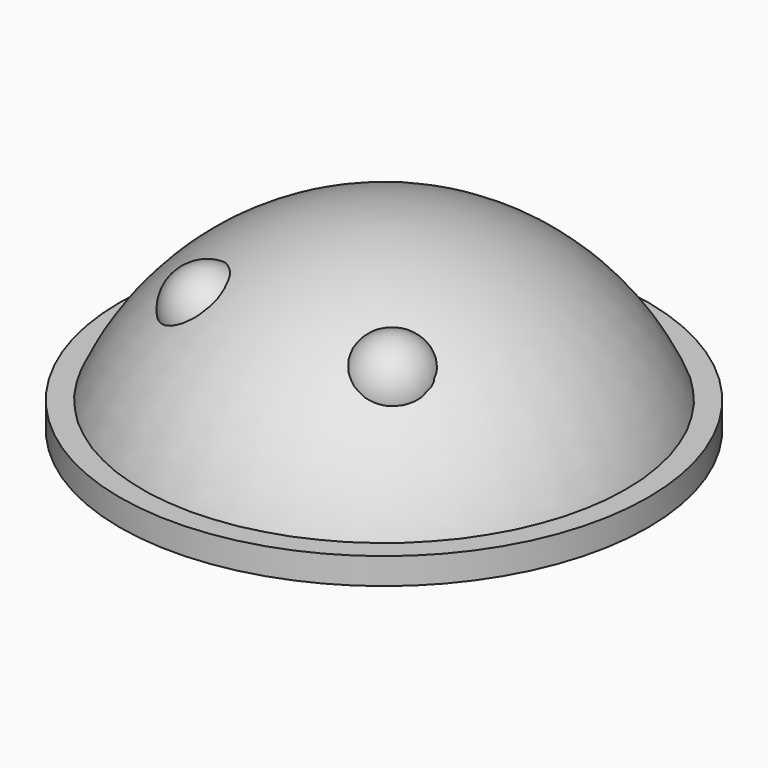
from build123d import *

# Parameters (mm, degrees)
CYLINDER_R     = 10
CYLINDER_DEPTH = 1


with BuildPart() as cylinder:
    # Cylinder → Cylinder (new body)
    with BuildSketch(Plane.XY):
        Circle(CYLINDER_R)
    extrude(amount=CYLINDER_DEPTH)


with BuildPart() as sphere:
    # Sphere → Sphere (revolve)
    with BuildSketch(Plane(origin=(0, 0, -3), x_dir=(1, 0, 0), z_dir=(0, -1, 0))):
        with BuildLine():
            ThreePointArc((9.396926, 3.420201), (5.735764, 8.19152), (0, 10))
            Line((0, 10), (0, 3.420201))
            Line((0, 3.420201), (9.396926, 3.420201))
        make_face()
    revolve(axis=Axis((0, 0, -3), (0, 0, 1)))


with BuildPart() as sphere001:
    # Sphere001 → Sphere001 (revolve)
    with BuildSketch(Plane(origin=(-3.5, -4, 4.5), x_dir=(1, 0, 0), z_dir=(0, -1, 0))):
        with BuildLine():
            ThreePointArc((0, -1.5), (1.5, 0), (0, 1.5))
            Line((0, 1.5), (0, -1.5))
        make_face()
    revolve(axis=Axis((-3.5, -4, 4.5), (0, 0, 1)))


with BuildPart() as sphere002:
    # Sphere002 → Sphere002 (revolve)
    with BuildSketch(Plane(origin=(3.5, -4, 4.5), x_dir=(1, 0, 0), z_dir=(0, -1, 0))):
        with BuildLine():
            ThreePointArc((0, -1.5), (1.5, 0), (0, 1.5))
            Line((0, 1.5), (0, -1.5))
        make_face()
    revolve(axis=Axis((3.5, -4, 4.5), (0, 0, 1)))


solid = Compound([cylinder.part, sphere.part, sphere001.part, sphere002.part])
